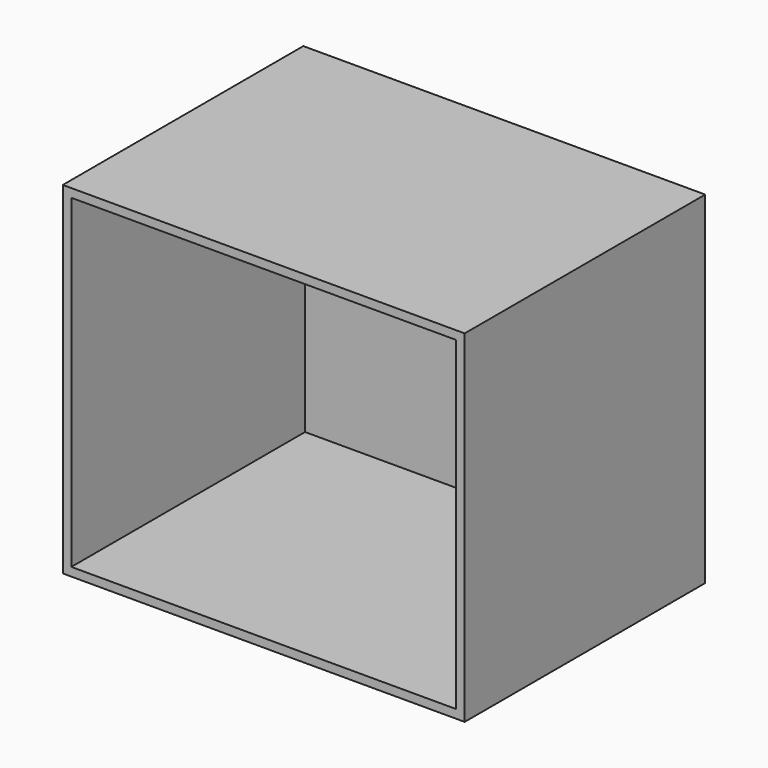
from build123d import *

# Parameters (mm, degrees)
F0_W          = 119.3782836199
F0_H          = 89.3059521914
F1_DEPTH      = 50.8
F1_DEPTH_BACK = 50.8
F2_T          = -2.54


with BuildPart() as f1:
    # F0 (on Top) → F1 (new body, two sides)
    with BuildSketch(Plane.XY) as f1_sk:
        Rectangle(F0_W, F0_H)
    extrude(amount=-F1_DEPTH)
    extrude(f1_sk.sketch, amount=F1_DEPTH_BACK)

    # F2
    f2_openings = [f1.faces().sort_by_distance(p)[0] for p in [
        (0, -44.652976, 0),
    ]]
    offset(amount=F2_T, openings=f2_openings)


solid = f1.part
